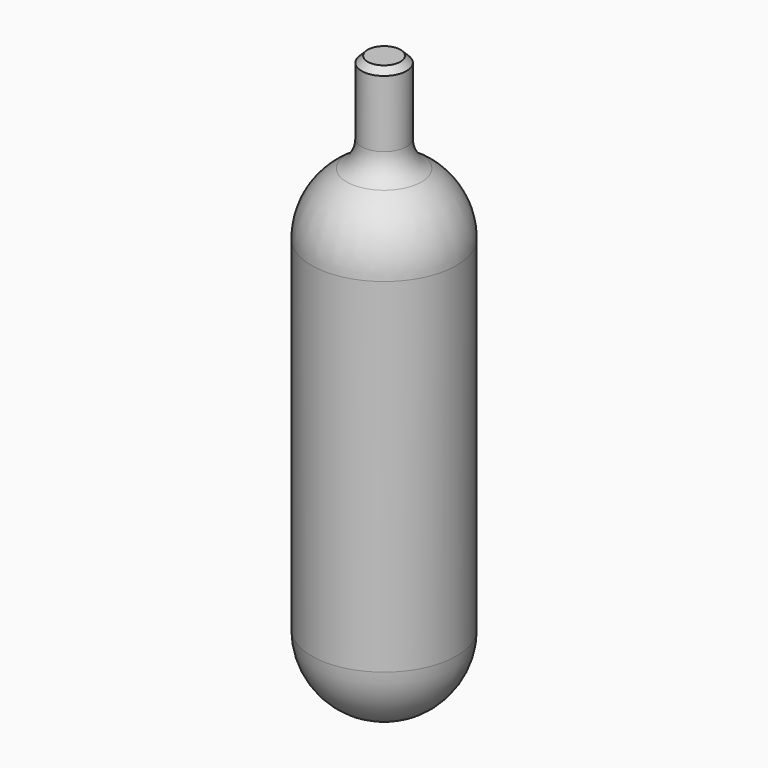
from build123d import *

# Parameters (mm, degrees)
F2_SIZE = 1.27


with BuildPart() as f1:
    # F0 (on Front) → F1 (revolve)
    with BuildSketch(Plane.XZ):
        with BuildLine():
            Line((0, 15.0241), (0, 0))
            ThreePointArc((0, 0), (10.623643, 4.400457), (15.0241, 15.0241))
            Line((15.0241, 15.0241), (0, 15.0241))
        make_face()
        with BuildLine():
            Line((0, 86.36), (0, 15.0241))
            Line((0, 15.0241), (15.0241, 15.0241))
            Line((15.0241, 15.0241), (15.0241, 86.36))
            ThreePointArc((15.0241, 86.36), (13.076801, 93.757355), (7.739688, 99.237143))
            ThreePointArc((7.739688, 99.237143), (5.483934, 101.553199), (4.6609, 104.679722))
            Line((4.6609, 104.679722), (4.6609, 119.7864))
            Line((4.6609, 119.7864), (0, 119.7864))
            Line((0, 119.7864), (0, 86.36))
        make_face()
    revolve(axis=Axis((0, 0, 43.18), (0, 0, 1)))

    # F2
    f2_edges = [f1.edges().sort_by_distance(p)[0] for p in [
        (-4.6609, 0, 119.7864),
    ]]
    chamfer(f2_edges, length=F2_SIZE)


solid = f1.part
